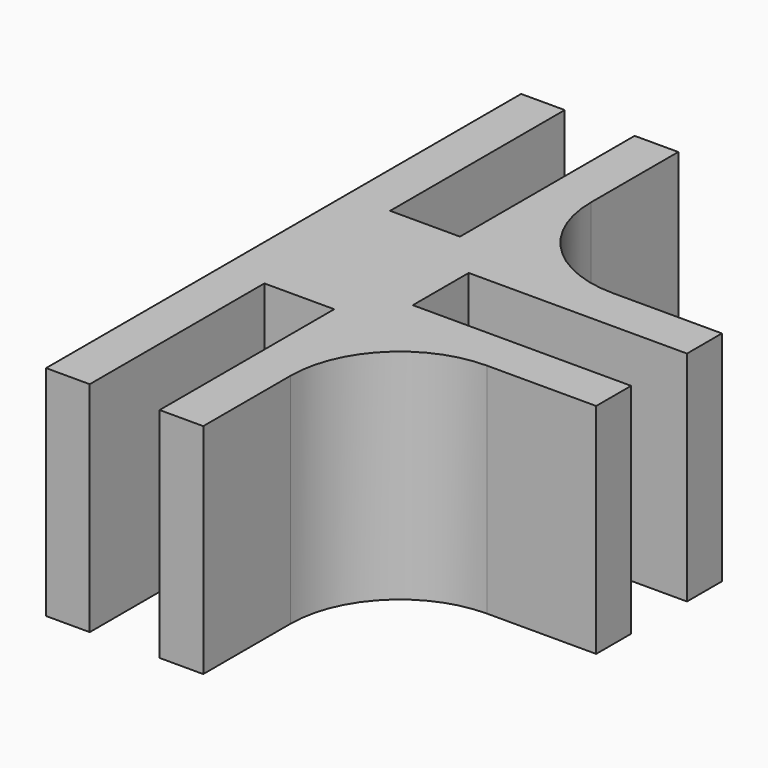
from build123d import *

# Parameters (mm, degrees)
F2_DEPTH = 10
F3_R     = 5


with BuildPart() as f2:
    # F1 (on Top) → F2 (new body)
    with BuildSketch(Plane.XY):
        Polygon((0, 13.6), (-2, 13.6), (-2, 3.6), (-5.2, 3.6), (-5.2, 13.6), (-7.2, 13.6), (-7.2, 3.6), (-7.2, -3.6), (-7.2, -13.6), (-5.2, -13.6), (-5.2, -3.6), (-2, -3.6), (-2, -13.6), (0, -13.6), (0, -3.6), (10, -3.6), (10, -1.6), (0, -1.6), (0, 1.6), (10, 1.6), (10, 3.6), (0, 3.6), align=None)
    extrude(amount=F2_DEPTH)

    # F3
    f3_edges = [f2.edges().sort_by_distance(p)[0] for p in [
        (0, -3.6, 5),
        (0, 3.6, 5),
    ]]
    fillet(f3_edges, radius=F3_R)


solid = f2.part
